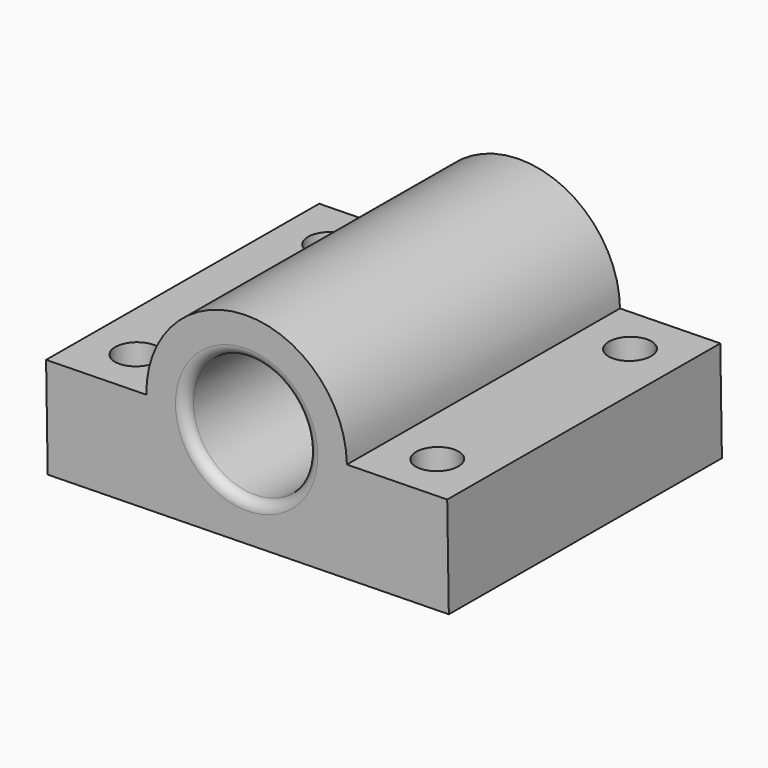
from build123d import *

# Parameters (mm, degrees)
SKETCH_R              = 3.05
PAD_DEPTH             = 7
PAD_DEPTH_BACK        = 10
SKETCH001_R           = 1.05
POCKET_DEPTH          = 5
FILLET_R              = 0.5
CLONE_ROLL_ANGLE      = -0.195955
CLONE_PITCH_ANGLE     = -1.083793
CLONE_PLACEMENT_ANGLE = -0.025657


with BuildPart() as part:
    # Sketch → Pad (new body, two sides)
    with BuildSketch(Plane.XZ) as pad_sk:
        with BuildLine():
            Line((10, 0), (10, -5))
            Line((10, -5), (-10, -5))
            Line((-10, -5), (-10, 0))
            Line((-10, 0), (-5, 0))
            ThreePointArc((5, 0), (0, 5), (-5, 0))
            Line((10, 0), (5, 0))
        make_face()
        Circle(SKETCH_R, mode=Mode.SUBTRACT)
    extrude(amount=PAD_DEPTH)
    extrude(pad_sk.sketch, amount=-PAD_DEPTH_BACK)

    # Sketch001 → Pocket (cut)
    with BuildSketch(Plane(origin=(0, 0, -5), x_dir=(1, 0, 0), z_dir=(0, 0, -1))):
        with Locations((-7.5, 4.5)):
            Circle(SKETCH001_R)
        with Locations((-7.5, -7.5)):
            Circle(SKETCH001_R)
        with Locations((7.5, -7.5)):
            Circle(SKETCH001_R)
        with Locations((7.5, 4.5)):
            Circle(SKETCH001_R)
    extrude(amount=-POCKET_DEPTH, mode=Mode.SUBTRACT)

    # Fillet
    fillet_edges = [part.edges().sort_by_distance(p)[0] for p in [
        (-3.05, 10, 0),
        (-3.05, -7, 0),
    ]]
    fillet(fillet_edges, radius=FILLET_R)


with BuildPart() as part_1:
    # Clone roll: moved
    add(part.part.rotate(Axis((0, 0, 0), (1, 0, 0)), CLONE_ROLL_ANGLE))


with BuildPart() as part_2:
    # Clone pitch: moved
    add(part_1.part.rotate(Axis((0, 0, 0), (0, 1, 0)), CLONE_PITCH_ANGLE))


with BuildPart() as part_3:
    # Clone placement: moved
    add(part_2.part.moved(Location((42.49284, -0.017909, 0.256585))).rotate(Axis((42.49284, -0.017909, 0.256585), (0, 0, 1)), CLONE_PLACEMENT_ANGLE))


solid = part_3.part
